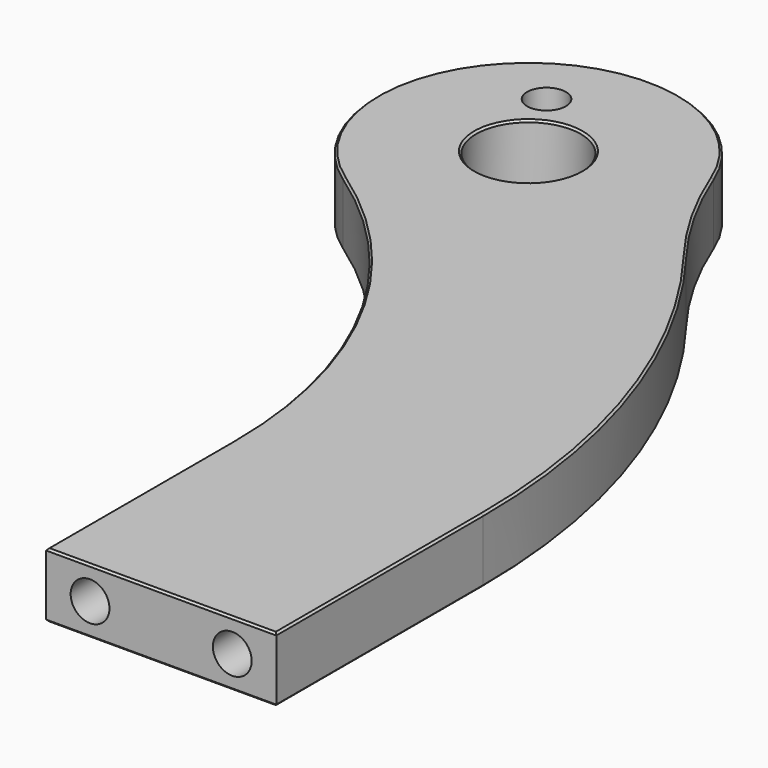
from build123d import *

# Parameters (mm, degrees)
F0_R     = 8.1
F1_DEPTH = 10
F2_SIZE  = 0.3
F3_R     = 3
F4_DEPTH = 8
F5_R     = 3
F6_DEPTH = 20


with BuildPart() as f1:
    # F0 (on Top) → F1 (new body)
    with BuildSketch(Plane.XY):
        with BuildLine():
            Line((0, 36.103194), (0, 0))
            Line((0, 0), (35.6, 0))
            Line((35.6, 0), (35.6, 40))
            ThreePointArc((35.6, 40), (29.690096, 75.901135), (12.584081, 108.013479))
            ThreePointArc((12.584081, 108.013479), (6.847931, 116.701894), (2.363287, 126.097635))
            ThreePointArc((2.363287, 126.097635), (-33.971495, 135.809329), (-32.663158, 98.221809))
            ThreePointArc((-32.663158, 98.221809), (-8.663511, 71.194519), (0, 36.103194))
        make_face()
        with Locations((-19.4, 117.5)):
            Circle(F0_R, mode=Mode.SUBTRACT)
    extrude(amount=F1_DEPTH)

    # F2
    f2_edges = [f1.edges().sort_by_distance(p)[0] for p in [
        (17.8, 0, 10),
        (0, 18.051597, 10),
        (-27.5, 117.5, 10),
        (29.690096, 75.901135, 0),
        (-27.5, 117.5, 0),
        (17.8, 0, 0),
    ]]
    chamfer(f2_edges, length=F2_SIZE)

    # F3 (on face) → F4 (cut)
    with BuildSketch(Plane.XY.offset(10)):
        with Locations((-26.2, 129.5)):
            Circle(F3_R)
    extrude(amount=-F4_DEPTH, mode=Mode.SUBTRACT)

    # F5 (on face) → F6 (cut)
    with BuildSketch(Plane.XZ):
        with Locations((6.8, 5)):
            Circle(F5_R)
        with Locations((28.8, 5)):
            Circle(F5_R)
    extrude(amount=-F6_DEPTH, mode=Mode.SUBTRACT)


solid = f1.part
